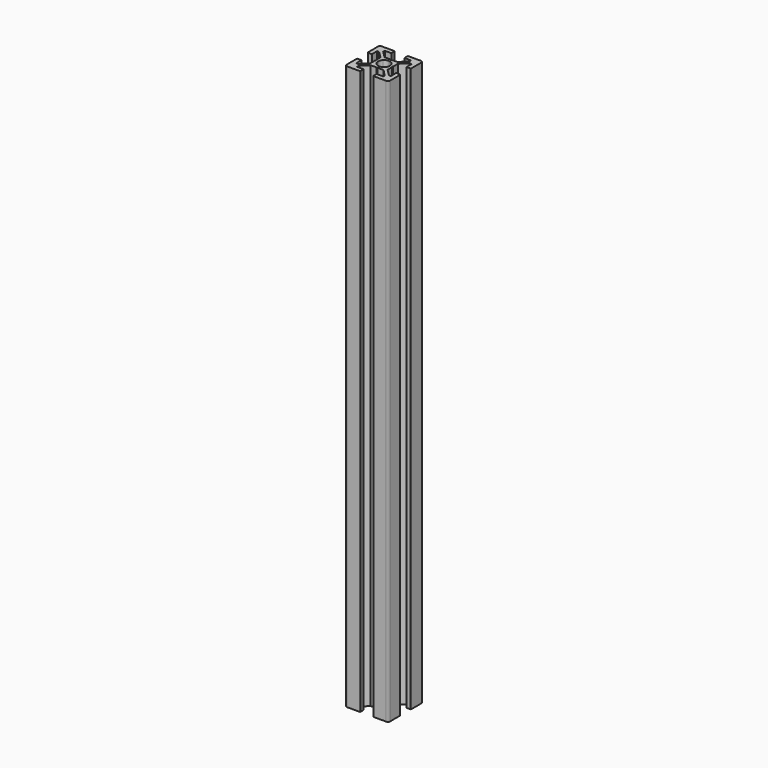
from build123d import *

# Parameters (mm, degrees)
PAD001_DEPTH                             = 130
PAD001_MIRRORED003_2_DEPTH               = 130
PAD001_MIRRORED004_2_DEPTH               = 130
PAD001_MIRRORED003_2_MIRRORED004_2_DEPTH = 130


with BuildPart() as part:
    # Sketch001 → Pad001 (new body, symmetric)
    with BuildSketch(Plane.XY):
        with BuildLine():
            Line((-3.7, 0), (-4, -0.3))
            Line((-4, -0.3), (-4, -2.95))
            Line((-4, -2.95), (-7.05, -6))
            Line((-7.05, -6), (-8, -6))
            Line((-8, -6), (-8, -3))
            Line((-8, -3), (-9.7, -3))
            ThreePointArc((-9.7, -3), (-9.912132, -3.087868), (-10, -3.3))
            Line((-10, -3.3), (-10, -9))
            ThreePointArc((-10, -9), (-9.92388, -9.382683), (-9.707107, -9.707107))
            Line((-1.944544, -1.944544), (-9.707107, -9.707107))
            ThreePointArc((-2.75, 0), (-2.540669, -1.052379), (-1.944544, -1.944544))
            Line((-3.7, 0), (-2.75, 0))
        make_face()
    pad001 = extrude(amount=PAD001_DEPTH, both=True)

    # Sketch001 Mirrored003 2 → Pad001 Mirrored003 2 (add, symmetric)
    with BuildSketch(Plane.YX):
        with BuildLine():
            Line((-3.7, 0), (-4, -0.3))
            Line((-4, -0.3), (-4, -2.95))
            Line((-4, -2.95), (-7.05, -6))
            Line((-7.05, -6), (-8, -6))
            Line((-8, -6), (-8, -3))
            Line((-8, -3), (-9.7, -3))
            ThreePointArc((-9.7, -3), (-9.912132, -3.087868), (-10, -3.3))
            Line((-10, -3.3), (-10, -9))
            ThreePointArc((-10, -9), (-9.92388, -9.382683), (-9.707107, -9.707107))
            Line((-1.944544, -1.944544), (-9.707107, -9.707107))
            ThreePointArc((-2.75, 0), (-2.540669, -1.052379), (-1.944544, -1.944544))
            Line((-3.7, 0), (-2.75, 0))
        make_face()
    pad001_mirrored003_2 = extrude(amount=-PAD001_MIRRORED003_2_DEPTH, both=True)

    # Sketch001 Mirrored004 2 → Pad001 Mirrored004 2 (add, symmetric)
    with BuildSketch(Plane(origin=(0, 0, 0), x_dir=(-1, 0, 0), z_dir=(0, 0, -1))):
        with BuildLine():
            Line((-3.7, 0), (-4, -0.3))
            Line((-4, -0.3), (-4, -2.95))
            Line((-4, -2.95), (-7.05, -6))
            Line((-7.05, -6), (-8, -6))
            Line((-8, -6), (-8, -3))
            Line((-8, -3), (-9.7, -3))
            ThreePointArc((-9.7, -3), (-9.912132, -3.087868), (-10, -3.3))
            Line((-10, -3.3), (-10, -9))
            ThreePointArc((-10, -9), (-9.92388, -9.382683), (-9.707107, -9.707107))
            Line((-1.944544, -1.944544), (-9.707107, -9.707107))
            ThreePointArc((-2.75, 0), (-2.540669, -1.052379), (-1.944544, -1.944544))
            Line((-3.7, 0), (-2.75, 0))
        make_face()
    pad001_mirrored004_2 = extrude(amount=-PAD001_MIRRORED004_2_DEPTH, both=True)

    # Sketch001 Mirrored003 2 Mirrored004 2 → Pad001 Mirrored003 2 Mirrored004 2 (add, symmetric)
    with BuildSketch(Plane(origin=(0, 0, 0), x_dir=(0, 1, 0), z_dir=(0, 0, 1))):
        with BuildLine():
            Line((-3.7, 0), (-4, -0.3))
            Line((-4, -0.3), (-4, -2.95))
            Line((-4, -2.95), (-7.05, -6))
            Line((-7.05, -6), (-8, -6))
            Line((-8, -6), (-8, -3))
            Line((-8, -3), (-9.7, -3))
            ThreePointArc((-9.7, -3), (-9.912132, -3.087868), (-10, -3.3))
            Line((-10, -3.3), (-10, -9))
            ThreePointArc((-10, -9), (-9.92388, -9.382683), (-9.707107, -9.707107))
            Line((-1.944544, -1.944544), (-9.707107, -9.707107))
            ThreePointArc((-2.75, 0), (-2.540669, -1.052379), (-1.944544, -1.944544))
            Line((-3.7, 0), (-2.75, 0))
        make_face()
    pad001_mirrored003_2_mirrored004_2 = extrude(amount=PAD001_MIRRORED003_2_MIRRORED004_2_DEPTH, both=True)

    # Mirrored005: Pad001, Pad001 Mirrored003 2, Pad001 Mirrored004 2, Pad001 Mirrored003 2 Mirrored004 2 across Sketch001 H_Axis
    add(pad001.mirror(Plane.ZX))
    add(pad001_mirrored003_2.mirror(Plane.ZX))
    add(pad001_mirrored004_2.mirror(Plane.ZX))
    add(pad001_mirrored003_2_mirrored004_2.mirror(Plane.ZX))


solid = part.part
